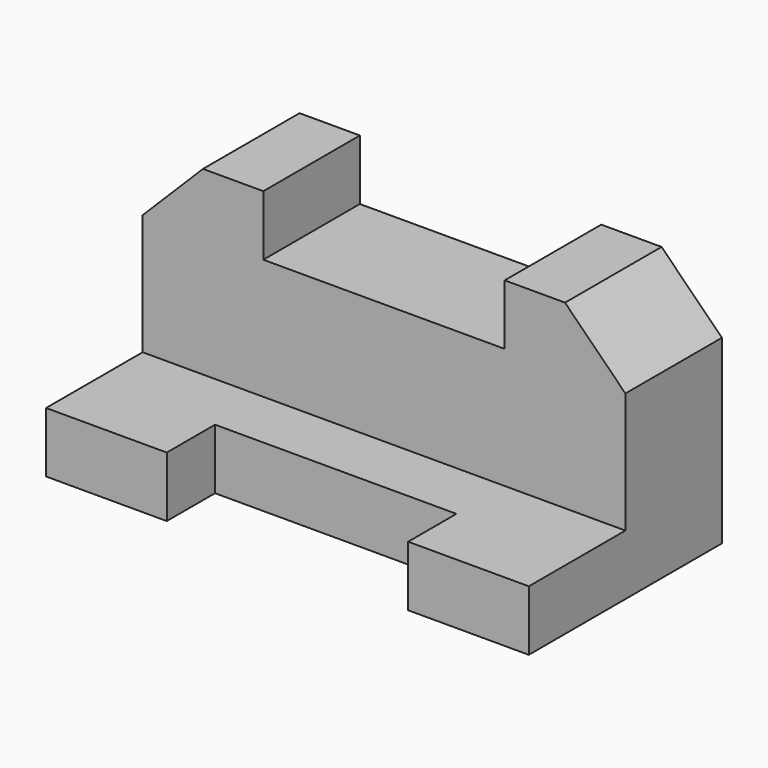
from build123d import *

# Parameters (mm, degrees)
F0_W     = 203.2
F0_H     = 50.8
F1_DEPTH = 25.4
F2_W     = 101.6
F2_H     = 25.4
F3_DEPTH = 25.4
F4_W     = 203.2
F4_H     = 76.2
F5_DEPTH = 50.8
F7_DEPTH = 50.8
F9_DEPTH = 50.8


with BuildPart() as f1:
    # F0 (on Top) → F1 (new body)
    with BuildSketch(Plane.XY):
        with Locations((56.968571, 19.412857)):
            Rectangle(F0_W, F0_H)
    extrude(amount=F1_DEPTH)

    # F2 (on face) → F3 (cut)
    with BuildSketch(Plane.XZ.offset(5.987143)):
        with Locations((56.968571, 12.7)):
            Rectangle(F2_W, F2_H)
    extrude(amount=-F3_DEPTH, mode=Mode.SUBTRACT)

    # F4 (on face) → F5 (join)
    with BuildSketch(Plane(origin=(0, 44.812857, 0), x_dir=(-1, 0, 0), z_dir=(0, 1, 0))):
        with Locations((-56.968571, 38.1)):
            Rectangle(F4_W, F4_H)
    extrude(amount=F5_DEPTH)

    # F6 (on face) → F7 (join)
    with BuildSketch(Plane.XZ.offset(-44.812857)):
        Polygon((107.768571, 76.2), (158.568571, 76.2), (133.168571, 101.6), (107.768571, 101.6), align=None)
    extrude(amount=-F7_DEPTH)

    # F8 (on face) → F9 (join)
    with BuildSketch(Plane.XZ.offset(-44.812857)):
        Polygon((-19.231429, 101.6), (-44.631429, 76.2), (6.168571, 76.2), (6.168571, 101.6), align=None)
    extrude(amount=-F9_DEPTH)


solid = f1.part
